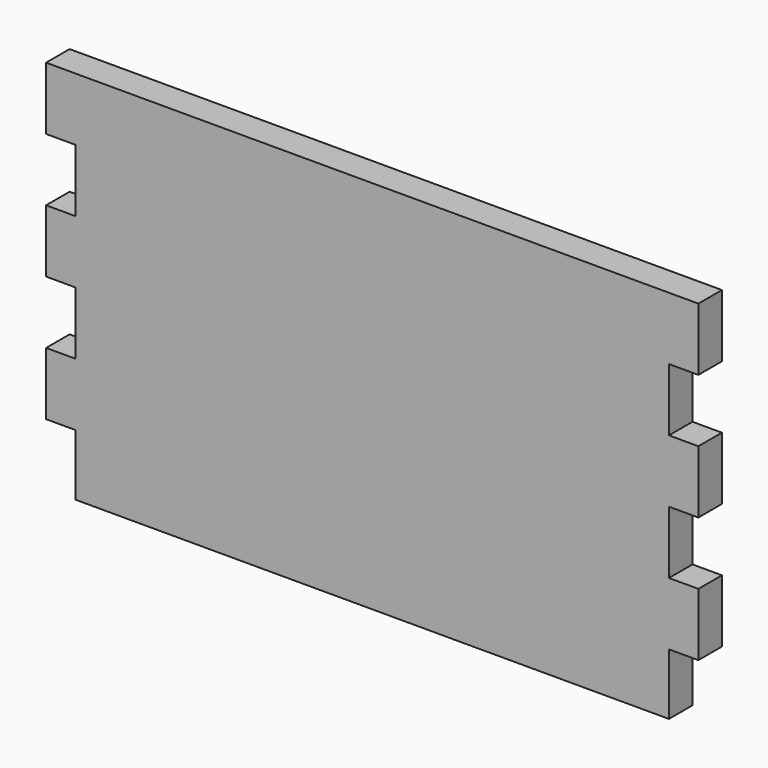
from build123d import *

# Parameters (mm, degrees)
F1_DEPTH = 19.05


with BuildPart() as f1:
    # F0 (on Front) → F1 (new body)
    with BuildSketch(Plane.XZ):
        Polygon((-193.158364, 104.478267), (-193.158364, 63.838267), (-174.108364, 63.838267), (-174.108364, 23.198267), (-193.158364, 23.198267), (-193.158364, -17.441733), (-174.108364, -17.441733), (-174.108364, -58.081733), (-193.158364, -58.081733), (-193.158364, -98.721733), (-174.108364, -98.721733), (-174.108364, -138.409233), (210.066636, -138.409233), (210.066636, -98.721733), (229.116636, -98.721733), (229.116636, -58.081733), (210.066636, -58.081733), (210.066636, -17.441733), (229.116636, -17.441733), (229.116636, 23.198267), (210.066636, 23.198267), (210.066636, 63.838267), (229.116636, 63.838267), (229.116636, 104.478267), align=None)
    extrude(amount=F1_DEPTH)


solid = f1.part
